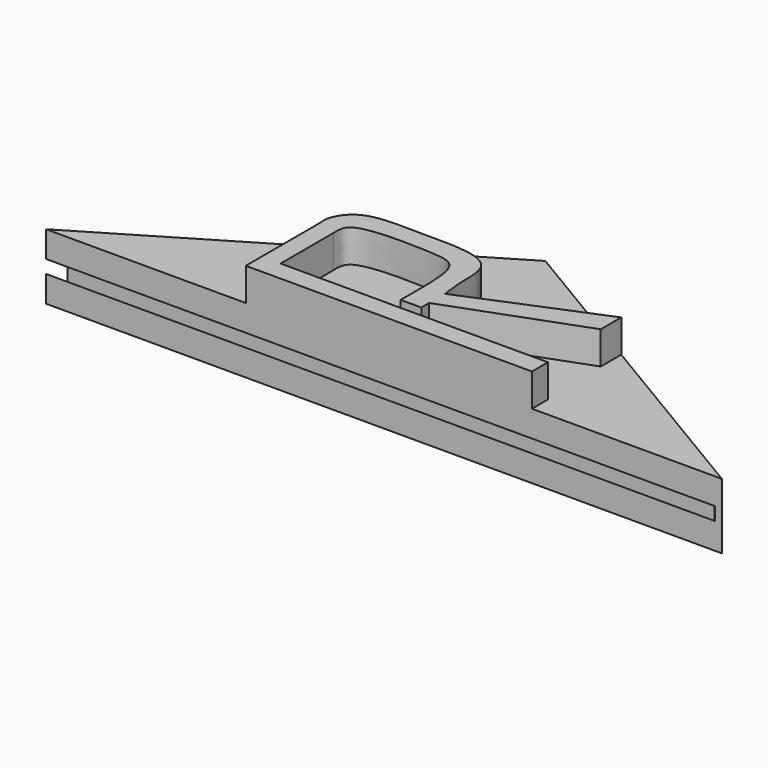
from build123d import *

# Parameters (mm, degrees)
F1_DEPTH = 50.8
F3_DEPTH = 518.2199364311
F5_DEPTH = 25.4


with BuildPart() as f1:
    # F0 (on Top) → F1 (new body)
    with BuildSketch(Plane.XY):
        Polygon((-256.483467652, 156.1972611251), (-518.2189364311, 0), (5.2520011271, 0), align=None)
    extrude(amount=F1_DEPTH)

    # F2 (on Right) → F3 (cut, through all)
    with BuildSketch(Plane.YZ):
        Polygon((6.7202083301, 38.1), (0, 30.48), (0, 20.32), (6.7202083301, 12.7), align=None)
    extrude(amount=-F3_DEPTH, mode=Mode.SUBTRACT)

    # F4 (on face) → F5 (join)
    with BuildSketch(Plane.XY.offset(50.8)):
        with BuildLine():
            Line((-363.5565638542, 66.0699382424), (-363.5565638542, 15.4361305758))
            Line((-363.5565638542, 15.4361305758), (-348.9585369825, 15.4361305758))
            Line((-348.9585369825, 15.4361305758), (-348.9585369825, 66.7609721422))
            add(Edge.make_bspline(
                [(-348.9585369825, 66.7609721422), (-349.1962850094, 72.1294507384), (-349.340803371, 85.5928406176), (-287.6615089898, 84.1058113884), (-262.8928370601, 81.391743052), (-262.399105211, 55.5299626512), (-262.4850422144, 40.7699868083)],
                knots=[0, 0, 0, 0, 0.1668742466, 0.5097494757, 0.7240103804, 1, 1, 1, 1], degree=3))
            Line((-262.4850422144, 40.7699868083), (-262.4850422144, 23.5870201141))
            Line((-262.4850422144, 23.5870201141), (-246.4926242828, 23.5870201141))
            Line((-246.4926242828, 23.5870201141), (-246.4926242828, 31.2213213871))
            Line((-246.4926242828, 31.2213213871), (-143.9413215727, 69.1381444045))
            Line((-143.9413215727, 69.1381444045), (-143.9413215727, 89.0348888997))
            Line((-143.9413215727, 89.0348888997), (-246.4926242828, 46.603564173))
            add(Edge.make_bspline(
                [(-363.5565638542, 66.0699382424), (-363.2831573486, 71.5237334371), (-365.6765544545, 78.9120083056), (-355.040460294, 96.3197217064), (-331.9011142788, 100.4510749559), (-301.9417077036, 98.9408625209), (-274.3425806674, 99.936876108), (-247.8596834541, 92.3872071167), (-248.6338026523, 64.1174365029), (-247.7710895443, 55.5507833564), (-246.4926242828, 46.603564173)],
                knots=[0, 0, 0, 0, 0.0967978336, 0.2071312198, 0.3339171066, 0.4812298803, 0.6246455368, 0.7535419216, 0.8817715915, 1, 1, 1, 1], degree=3))
        make_face()
        Polygon((-363.5565638542, 15.4361305758), (-363.5565638542, 0), (-141.8597176671, 0), (-141.8597176671, 15.4361305758), (-348.9585369825, 15.4361305758), align=None)
    extrude(amount=F5_DEPTH)


solid = f1.part
